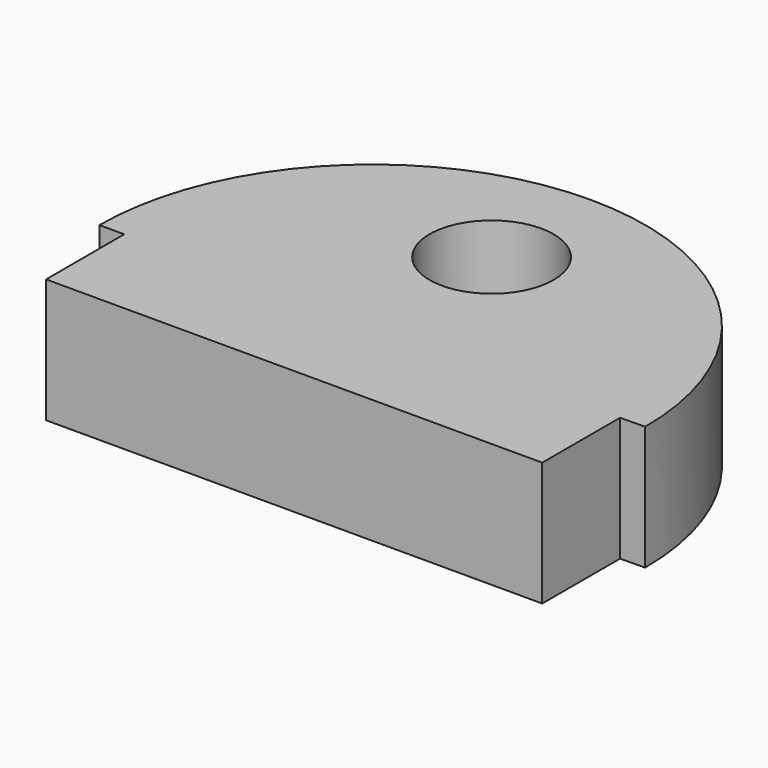
from build123d import *

# Parameters (mm, degrees)
F1_DEPTH = 6.35
F2_R     = 3.175
F3_DEPTH = 25.4


with BuildPart() as f1:
    # F0 (on Top) → F1 (new body)
    with BuildSketch(Plane.XY):
        with BuildLine():
            Line((-20.00276, -31.761659), (-20.00276, -36.761659))
            Line((-20.00276, -36.761659), (5.39724, -36.761659))
            Line((5.39724, -36.761659), (5.39724, -31.783345))
            Line((5.39724, -31.783345), (6.667234, -31.761659))
            ThreePointArc((6.667234, -31.761659), (-7.30276, -17.779105), (-21.272754, -31.761659))
            Line((-21.272754, -31.761659), (-20.00276, -31.761659))
        make_face()
    extrude(amount=F1_DEPTH)

    # F2 (on face) → F3 (cut)
    with BuildSketch(Plane.XY.offset(6.35)):
        with Locations((-7.30276, -24.129105)):
            Circle(F2_R)
    extrude(amount=-F3_DEPTH, mode=Mode.SUBTRACT)


solid = f1.part
